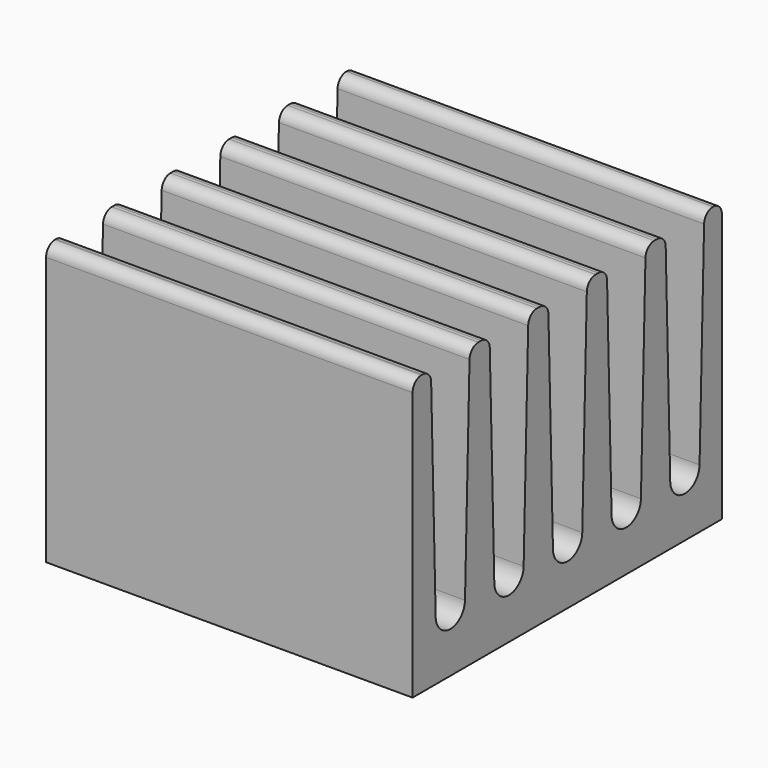
from build123d import *

# Parameters (mm, degrees)
F0_W     = 20
F0_H     = 21.1
F1_DEPTH = 15.25
F4_DEPTH = 20.001
F5_R     = 0.6


with BuildPart() as f1:
    # F0 (on Top) → F1 (new body)
    with BuildSketch(Plane.XY):
        with Locations((10, 10.55)):
            Rectangle(F0_W, F0_H)
    extrude(amount=F1_DEPTH)

    # F3 (on face) → F4 (cut, through all)
    with BuildSketch(Plane.YZ.offset(20)):
        with BuildLine():
            Line((3.9, 15.25), (1.25, 15.25))
            Line((1.25, 15.25), (1.575, 3.2229775179))
            ThreePointArc((1.575, 3.2229775179), (2.575, 2.2496349594), (3.575, 3.2229775179))
            Line((3.575, 3.2229775179), (3.9, 15.25))
        make_face()
        with BuildLine():
            Line((7.9, 15.25), (5.25, 15.25))
            Line((5.25, 15.25), (5.575, 3.2229775179))
            ThreePointArc((5.575, 3.2229775179), (6.575, 2.2496349594), (7.575, 3.2229775179))
            Line((7.575, 3.2229775179), (7.9, 15.25))
        make_face()
        with BuildLine():
            Line((11.9, 15.25), (9.25, 15.25))
            Line((9.25, 15.25), (9.575, 3.2229775179))
            ThreePointArc((9.575, 3.2229775179), (10.575, 2.2496349594), (11.575, 3.2229775179))
            Line((11.575, 3.2229775179), (11.9, 15.25))
        make_face()
        with BuildLine():
            Line((15.9, 15.25), (13.25, 15.25))
            Line((13.25, 15.25), (13.575, 3.2229775179))
            ThreePointArc((13.575, 3.2229775179), (14.575, 2.2496349594), (15.575, 3.2229775179))
            Line((15.575, 3.2229775179), (15.9, 15.25))
        make_face()
        with BuildLine():
            Line((19.575, 3.2229775179), (19.9, 15.25))
            Line((19.9, 15.25), (17.25, 15.25))
            Line((17.25, 15.25), (17.575, 3.2229775179))
            ThreePointArc((17.575, 3.2229775179), (18.575, 2.2496349594), (19.575, 3.2229775179))
        make_face()
    extrude(amount=-F4_DEPTH, mode=Mode.SUBTRACT)

    # F5
    f5_edges = [f1.edges().sort_by_distance(p)[0] for p in [
        (10, 0, 15.25),
        (10, 1.25, 15.25),
        (10, 3.9, 15.25),
        (10, 5.25, 15.25),
        (10, 7.9, 15.25),
        (10, 9.25, 15.25),
        (10, 11.9, 15.25),
        (10, 13.25, 15.25),
        (10, 15.9, 15.25),
        (10, 17.25, 15.25),
        (10, 19.9, 15.25),
        (10, 21.1, 15.25),
    ]]
    fillet(f5_edges, radius=F5_R)


solid = f1.part
